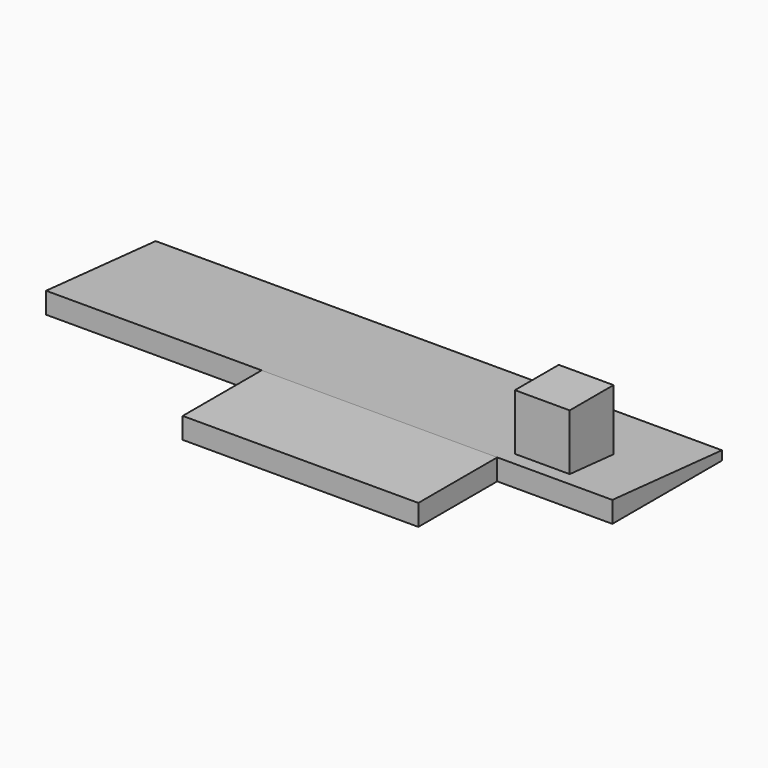
from build123d import *

# Parameters (mm, degrees)
F1_DEPTH      = 9448.8
F2_W          = 3931.92
F2_H          = 1645.92
F3_DEPTH      = 352.399085
F4_W          = 914.4
F4_H          = 914.4
F5_DEPTH      = 914.4
F5_DEPTH_BACK = 127


with BuildPart() as f1:
    # F0 (on Right) → F1 (new body)
    with BuildSketch(Plane.YZ):
        Polygon((2286, -199.999085), (0, 0), (0, -199.999085), (0, -352.399085), (2286, -352.399085), align=None)
    extrude(amount=-F1_DEPTH)

    # F2 (on Top) → F3 (join, through all)
    with BuildSketch(Plane.XY):
        with Locations((-3886.2, -822.96)):
            Rectangle(F2_W, F2_H)
    extrude(amount=-F3_DEPTH)


with BuildPart() as f5:
    # F4 (on Top) → F5 (new body, two sides)
    with BuildSketch(Plane.XY) as f5_sk:
        with Locations((-1371.6, 711.2)):
            Rectangle(F4_W, F4_H)
    extrude(amount=F5_DEPTH)
    extrude(f5_sk.sketch, amount=-F5_DEPTH_BACK)


solid = Compound([f1.part, f5.part])
